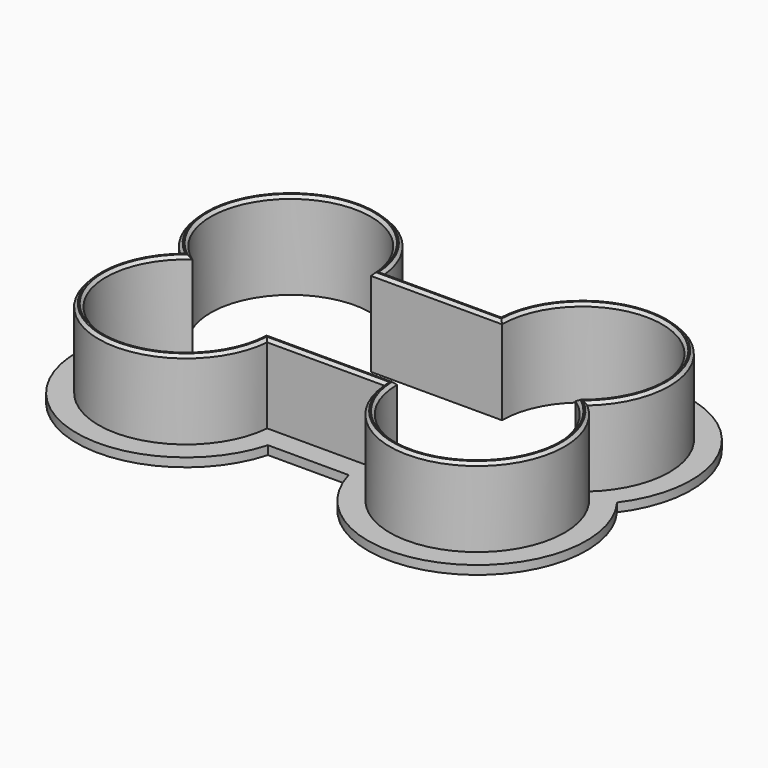
from build123d import *

# Parameters (mm, degrees)
F1_DEPTH = 3
F2_DEPTH = 30
F3_SIZE  = 1


with BuildPart() as f1:
    # F0 (on Top) → F1 (new body)
    with BuildSketch(Plane.XY):
        with BuildLine():
            Line((13.857919263, 32.5), (-13.857919263, 32.5))
            ThreePointArc((-13.857919263, 32.5), (-66.5376476243, 56.1564438266), (-80, 0))
            ThreePointArc((-80, 0), (-66.5376476243, -56.1564438266), (-13.857919263, -32.5))
            Line((-13.857919263, -32.5), (13.857919263, -32.5))
            ThreePointArc((13.857919263, -32.5), (66.5376476243, -56.1564438266), (80, 0))
            ThreePointArc((80, 0), (66.5376476243, 56.1564438266), (13.857919263, 32.5))
        make_face()
        with BuildLine():
            ThreePointArc((-69.843134833, 0), (-63.4726862442, 49.30460269), (-20.1043481422, 25))
            Line((-20.1043481422, 25), (20.1043481422, 25))
            ThreePointArc((20.1043481422, 25), (63.4726862442, 49.30460269), (69.843134833, 0))
            ThreePointArc((69.843134833, 0), (63.4726862442, -49.30460269), (20.1043481422, -25))
            Line((20.1043481422, -25), (-20.1043481422, -25))
            ThreePointArc((-20.1043481422, -25), (-63.4726862442, -49.30460269), (-69.843134833, 0))
        make_face(mode=Mode.SUBTRACT)
    extrude(amount=F1_DEPTH)

    # F0 (on Top) → F2 (join)
    with BuildSketch(Plane.XY):
        with BuildLine():
            Line((20.1043481422, 25), (-20.1043481422, 25))
            ThreePointArc((-20.1043481422, 25), (-63.4726862442, 49.30460269), (-69.843134833, 0))
            ThreePointArc((-69.843134833, 0), (-63.4726862442, -49.30460269), (-20.1043481422, -25))
            Line((-20.1043481422, -25), (20.1043481422, -25))
            ThreePointArc((20.1043481422, -25), (63.4726862442, -49.30460269), (69.843134833, 0))
            ThreePointArc((69.843134833, 0), (63.4726862442, 49.30460269), (20.1043481422, 25))
        make_face()
        with BuildLine():
            ThreePointArc((-22.5, -22.5), (-62.677476518, -46.9035159175), (-65.8113883008, 0))
            ThreePointArc((-65.8113883008, 0), (-62.677476518, 46.9035159175), (-22.5, 22.5))
            Line((-22.5, 22.5), (22.5, 22.5))
            ThreePointArc((22.5, 22.5), (62.677476518, 46.9035159175), (65.8113883008, 0))
            ThreePointArc((65.8113883008, 0), (62.677476518, -46.9035159175), (22.5, -22.5))
            Line((22.5, -22.5), (-22.5, -22.5))
        make_face(mode=Mode.SUBTRACT)
    extrude(amount=F2_DEPTH)

    # F3
    f3_edges = [f1.edges().sort_by_distance(p)[0] for p in [
        (-63.472686, -49.304603, 30),
        (0, -25, 30),
        (63.472686, -49.304603, 30),
        (63.472686, 49.304603, 30),
        (0, 25, 30),
        (-63.472686, 49.304603, 30),
        (-62.677477, 46.903516, 30),
        (-62.677477, -46.903516, 30),
        (0, -22.5, 30),
        (0, 22.5, 30),
        (62.677477, 46.903516, 30),
        (62.677477, -46.903516, 30),
    ]]
    chamfer(f3_edges, length=F3_SIZE)


solid = f1.part
